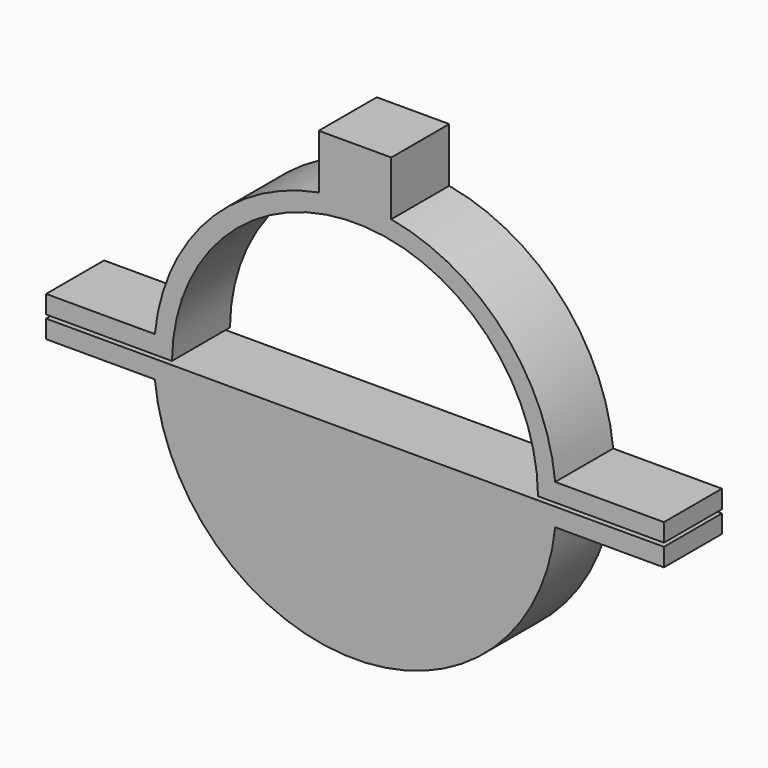
from build123d import *

# Parameters (mm, degrees)
F1_DEPTH = 25.4


with BuildPart() as f1:
    # F0 (on Front) → F1 (new body)
    with BuildSketch(Plane.XZ):
        with BuildLine():
            Line((0, -0.635), (-64.131856, -0.635))
            ThreePointArc((-64.131856, -0.635), (0, -64.135), (64.131856, -0.635))
            Line((64.131856, -0.635), (0, -0.635))
        make_face()
        with BuildLine():
            ThreePointArc((64.131856, -0.635), (0, -64.135), (-64.131856, -0.635))
            Line((-64.131856, -0.635), (-108.238042, -0.635))
            Line((-108.238042, -0.635), (-108.238042, -6.985))
            Line((-108.238042, -6.985), (-70.138042, -6.985))
            ThreePointArc((-70.138042, -6.985), (0, -70.485), (70.138042, -6.985))
            Line((70.138042, -6.985), (108.238042, -6.985))
            Line((108.238042, -6.985), (108.238042, -0.635))
            Line((108.238042, -0.635), (70.48214, -0.635))
            Line((70.48214, -0.635), (64.131856, -0.635))
        make_face()
        with BuildLine():
            Line((-12.7, 88.381416), (-12.7, 69.331416))
            ThreePointArc((-12.7, 69.331416), (-51.839215, 47.758047), (-70.138042, 6.985))
            Line((-70.138042, 6.985), (-108.238042, 6.985))
            Line((-108.238042, 6.985), (-108.238042, 0.635))
            Line((-108.238042, 0.635), (-64.131856, 0.635))
            ThreePointArc((-64.131856, 0.635), (0, 64.135), (64.131856, 0.635))
            Line((64.131856, 0.635), (70.48214, 0.635))
            Line((70.48214, 0.635), (108.238042, 0.635))
            Line((108.238042, 0.635), (108.238042, 6.985))
            Line((108.238042, 6.985), (70.138042, 6.985))
            ThreePointArc((70.138042, 6.985), (51.839215, 47.758047), (12.7, 69.331416))
            Line((12.7, 69.331416), (12.7, 88.381416))
            Line((12.7, 88.381416), (-12.7, 88.381416))
        make_face()
    extrude(amount=F1_DEPTH)


solid = f1.part
